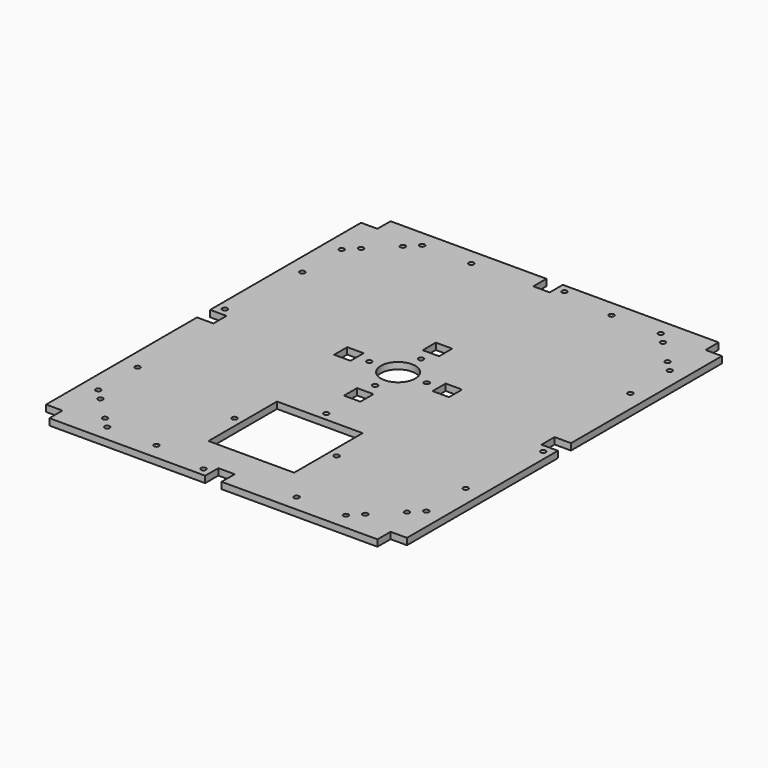
from build123d import *

# Parameters (mm, degrees)
F0_R     = 1.55
F0_W     = 52.2
F0_H     = 52.2
F0_W_2   = 10
F0_H_2   = 10
F0_R_2   = 10.5
F1_DEPTH = 4


with BuildPart() as f1:
    # F0 (on Top) → F1 (new body)
    with BuildSketch(Plane.XY):
        Polygon((10, 10), (10, 0), (105, 0), (105, 10), (115, 10), (115, 0), (210, 0), (210, 10), (220, 10), (220, 125), (210, 125), (210, 135), (220, 135), (220, 250), (210, 250), (210, 260), (115, 260), (115, 250), (105, 250), (105, 260), (10, 260), (10, 250), (0, 250), (0, 135), (10, 135), (10, 125), (0, 125), (0, 10), align=None)
        with Locations((16.561597, 30.703403)):
            Circle(F0_R, mode=Mode.SUBTRACT)
        with Locations((37.265, 10)):
            Circle(F0_R, mode=Mode.SUBTRACT)
        with Locations((30.703403, 16.561597)):
            Circle(F0_R, mode=Mode.SUBTRACT)
        with Locations((10, 37.265)):
            Circle(F0_R, mode=Mode.SUBTRACT)
        with Locations((67.265, 10)):
            Circle(F0_R, mode=Mode.SUBTRACT)
        with Locations((100, 5)):
            Circle(F0_R, mode=Mode.SUBTRACT)
        with Locations((78.9, 55)):
            Circle(F0_R, mode=Mode.SUBTRACT)
        with Locations((10, 67.265)):
            Circle(F0_R, mode=Mode.SUBTRACT)
        with Locations((152.735, 10)):
            Circle(F0_R, mode=Mode.SUBTRACT)
        with Locations((110, 55)):
            Rectangle(F0_W, F0_H, mode=Mode.SUBTRACT)
        with Locations((141.1, 55)):
            Circle(F0_R, mode=Mode.SUBTRACT)
        with Locations((182.735, 10)):
            Circle(F0_R, mode=Mode.SUBTRACT)
        with Locations((189.296597, 16.561597)):
            Circle(F0_R, mode=Mode.SUBTRACT)
        with Locations((203.438403, 30.703403)):
            Circle(F0_R, mode=Mode.SUBTRACT)
        with Locations((210, 37.265)):
            Circle(F0_R, mode=Mode.SUBTRACT)
        with Locations((110, 86.1)):
            Circle(F0_R, mode=Mode.SUBTRACT)
        with Locations((110, 110.7335)):
            Rectangle(F0_W_2, F0_H_2, mode=Mode.SUBTRACT)
        with Locations((110, 123.2335)):
            Circle(F0_R, mode=Mode.SUBTRACT)
        with Locations((210, 67.265)):
            Circle(F0_R, mode=Mode.SUBTRACT)
        with Locations((215, 120)):
            Circle(F0_R, mode=Mode.SUBTRACT)
        with Locations((5, 140)):
            Circle(F0_R, mode=Mode.SUBTRACT)
        with Locations((10, 192.735)):
            Circle(F0_R, mode=Mode.SUBTRACT)
        with Locations((80, 140.7335)):
            Rectangle(F0_W_2, F0_H_2, mode=Mode.SUBTRACT)
        with Locations((92.5, 140.7335)):
            Circle(F0_R, mode=Mode.SUBTRACT)
        with Locations((10, 222.735)):
            Circle(F0_R, mode=Mode.SUBTRACT)
        with Locations((16.561597, 229.296597)):
            Circle(F0_R, mode=Mode.SUBTRACT)
        with Locations((30.703403, 243.438403)):
            Circle(F0_R, mode=Mode.SUBTRACT)
        with Locations((37.265, 250)):
            Circle(F0_R, mode=Mode.SUBTRACT)
        with Locations((67.265, 250)):
            Circle(F0_R, mode=Mode.SUBTRACT)
        with Locations((110, 140.7335)):
            Circle(F0_R_2, mode=Mode.SUBTRACT)
        with Locations((127.5, 140.7335)):
            Circle(F0_R, mode=Mode.SUBTRACT)
        with Locations((110, 158.2335)):
            Circle(F0_R, mode=Mode.SUBTRACT)
        with Locations((140, 140.7335)):
            Rectangle(F0_W_2, F0_H_2, mode=Mode.SUBTRACT)
        with Locations((110, 170.7335)):
            Rectangle(F0_W_2, F0_H_2, mode=Mode.SUBTRACT)
        with Locations((210, 192.735)):
            Circle(F0_R, mode=Mode.SUBTRACT)
        with Locations((120, 255)):
            Circle(F0_R, mode=Mode.SUBTRACT)
        with Locations((152.735, 250)):
            Circle(F0_R, mode=Mode.SUBTRACT)
        with Locations((210, 222.735)):
            Circle(F0_R, mode=Mode.SUBTRACT)
        with Locations((189.296597, 243.438403)):
            Circle(F0_R, mode=Mode.SUBTRACT)
        with Locations((182.735, 250)):
            Circle(F0_R, mode=Mode.SUBTRACT)
        with Locations((203.438403, 229.296597)):
            Circle(F0_R, mode=Mode.SUBTRACT)
    extrude(amount=F1_DEPTH)


solid = f1.part
